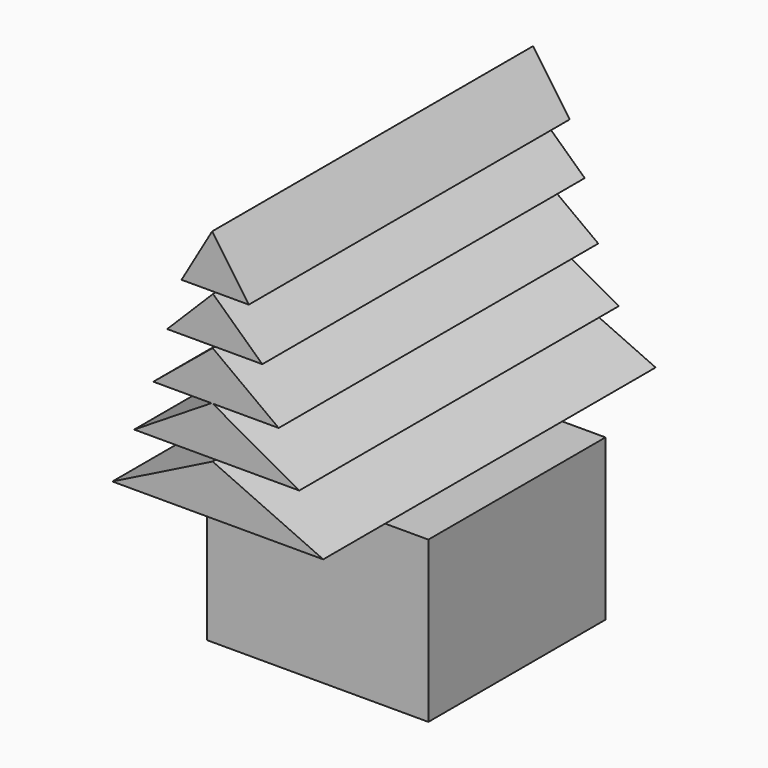
from build123d import *

# Parameters (mm, degrees)
F0_W      = 6.306209
F0_H      = 6.306208
F1_DEPTH  = 4.572
F3_DEPTH  = 11.43
F5_DEPTH  = 11.4808
F7_DEPTH  = 11.3792
F9_DEPTH  = 11.3792
F11_DEPTH = 11.8364


with BuildPart() as f1:
    # F0 (on Top) → F1 (new body)
    with BuildSketch(Plane.XY):
        with Locations((-3.153104, 6.897414)):
            Rectangle(F0_W, F0_H)
    extrude(amount=F1_DEPTH)


with BuildPart() as f3:
    # F2 (on Front) → F3 (new body)
    with BuildSketch(Plane.XZ):
        Polygon((-2.119942, 11.296483), (-3.165058, 12.794483), (-4.035988, 11.296483), align=None)
    extrude(amount=-F3_DEPTH)


with BuildPart() as f5:
    # F4 (on Front) → F5 (new body)
    with BuildSketch(Plane.XZ):
        Polygon((-1.735155, 9.928341), (-3.139272, 11.233923), (-4.444853, 9.928341), align=None)
    extrude(amount=-F5_DEPTH)


with BuildPart() as f7:
    # F6 (on Front) → F7 (new body)
    with BuildSketch(Plane.XZ):
        Polygon((-1.268789, 8.48022), (-3.149998, 9.873709), (-4.839602, 8.48022), align=None)
    extrude(amount=-F7_DEPTH)

    # F8 (on Front) → F9 (join)
    with BuildSketch(Plane.XZ):
        Polygon((-0.68238, 7.102603), (-3.168099, 8.490463), (-5.384531, 7.102603), align=None)
    extrude(amount=-F9_DEPTH)


with BuildPart() as f11:
    # F10 (on Front) → F11 (new body)
    with BuildSketch(Plane.XZ):
        Polygon((0, 5.598234), (-3.149002, 7.026985), (-6.006502, 5.598234), align=None)
    extrude(amount=-F11_DEPTH)


solid = Compound([f1.part, f3.part, f5.part, f7.part, f11.part])
